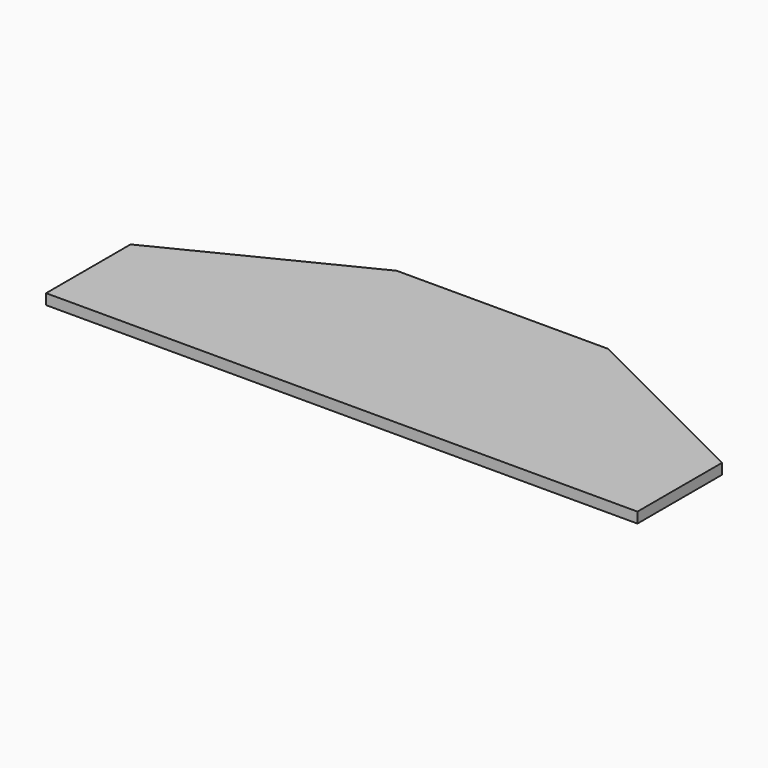
from build123d import *

# Parameters (mm, degrees)
F1_DEPTH = 2.5


with BuildPart() as f1:
    # F0 (on Top) → F1 (new body, symmetric)
    with BuildSketch(Plane.XY):
        Polygon((-140, 0), (0, 0), (140, 0), (140, 50), (50, 95), (0, 95), (-50, 95), (-140, 50), align=None)
    extrude(amount=F1_DEPTH, both=True)


solid = f1.part
